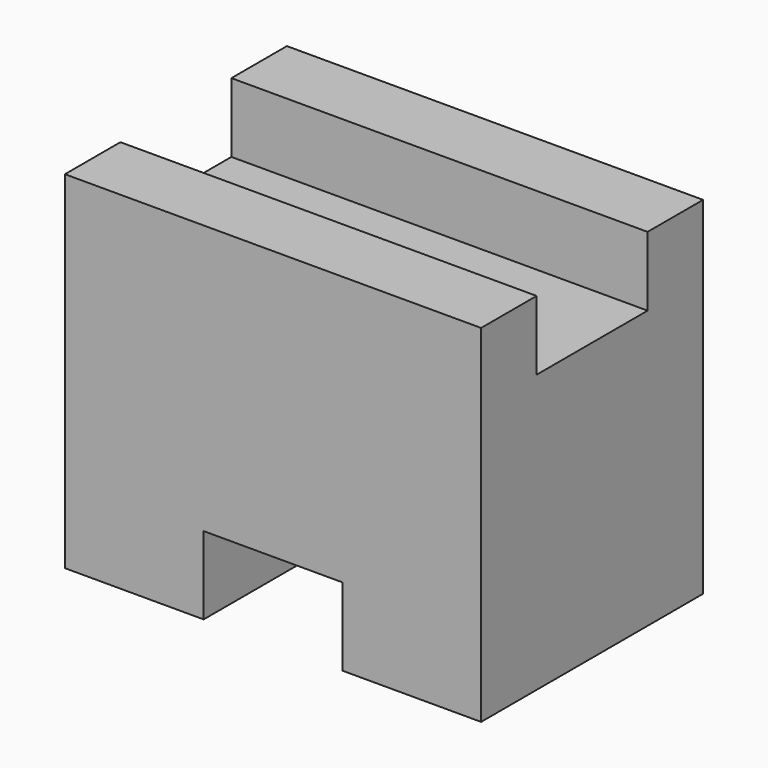
from build123d import *

# Parameters (mm, degrees)
F1_DEPTH = 25.4
F2_W     = 12.7
F2_H     = 6.35
F3_DEPTH = 38.101


with BuildPart() as f1:
    # F0 (on Front) → F1 (new body)
    with BuildSketch(Plane.XZ):
        Polygon((0, 26.167582), (-38.1, 26.167582), (-38.1, -5.582418), (-25.4, -5.582418), (-25.4, 1.535165), (-12.7, 1.535165), (-12.7, -5.582418), (0, -5.582418), align=None)
    extrude(amount=F1_DEPTH)

    # F2 (on face) → F3 (cut, through all)
    with BuildSketch(Plane(origin=(-38.1, 0, 0), x_dir=(0, -1, 0), z_dir=(-1, 0, 0))):
        with Locations((12.7, 22.992582)):
            Rectangle(F2_W, F2_H)
    extrude(amount=-F3_DEPTH, mode=Mode.SUBTRACT)


solid = f1.part
